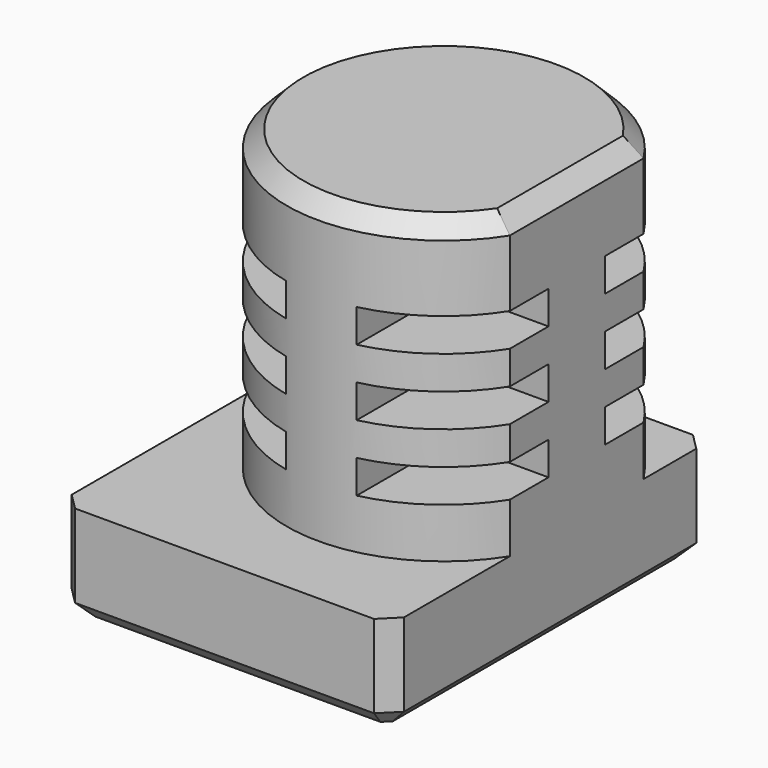
from build123d import *

# Parameters (mm, degrees)
PAD002_DEPTH           = 18
CHAMFER001_SIZE        = 1
SKETCH004_W            = 20
SKETCH004_H            = 20
POCKET001_DEPTH        = 2
LINEARPATTERN001_COUNT = 3
LINEARPATTERN001_PITCH = 4
PAD003_DEPTH           = 6
CHAMFER002_SIZE        = 1


with BuildPart() as part:
    # Sketch003 → Pad002 (new body)
    with BuildSketch(Plane.XY):
        with BuildLine():
            ThreePointArc((8, 5.030159), (-9.45, 0), (8, -5.030159))
            Line((8, 5.030159), (8, -5.030159))
        make_face()
    extrude(amount=PAD002_DEPTH)

    # Chamfer001
    chamfer001_edges = [part.edges().sort_by_distance(p)[0] for p in [
        (-9.45, 0, 18),
        (8, 0, 18),
    ]]
    chamfer(chamfer001_edges, length=CHAMFER001_SIZE)

    # Sketch004 → Pocket001 (cut)
    with BuildSketch(Plane.XY.offset(3)):
        with Locations((12.12132, -12.12132)):
            Rectangle(SKETCH004_W, SKETCH004_H)
        with Locations((12.12132, 12.12132)):
            Rectangle(SKETCH004_W, SKETCH004_H)
        with Locations((-12.12132, 12.12132)):
            Rectangle(SKETCH004_W, SKETCH004_H)
        with Locations((-12.12132, -12.12132)):
            Rectangle(SKETCH004_W, SKETCH004_H)
    pocket001 = extrude(amount=POCKET001_DEPTH, mode=Mode.SUBTRACT)

    # LinearPattern001: Pocket001 ×3
    with Locations(*[(0, 0, i * LINEARPATTERN001_PITCH) for i in range(1, LINEARPATTERN001_COUNT)]):
        add(pocket001, mode=Mode.SUBTRACT)

    # Sketch005 → Pad003 (join)
    with BuildSketch(Plane.XY):
        Polygon((-12, 9), (-12, -13), (-11, -14), (7, -14), (8, -13), (8, 9), (7, 10), (-11, 10), align=None)
    extrude(amount=-PAD003_DEPTH)

    # Chamfer002
    chamfer002_edges = [part.edges().sort_by_distance(p)[0] for p in [
        (-2, 10, -6),
        (-11.5, 9.5, -6),
        (-12, -2, -6),
        (-11.5, -13.5, -6),
        (-2, -14, -6),
        (7.5, -13.5, -6),
        (8, -2, -6),
        (7.5, 9.5, -6),
    ]]
    chamfer(chamfer002_edges, length=CHAMFER002_SIZE)


solid = part.part
